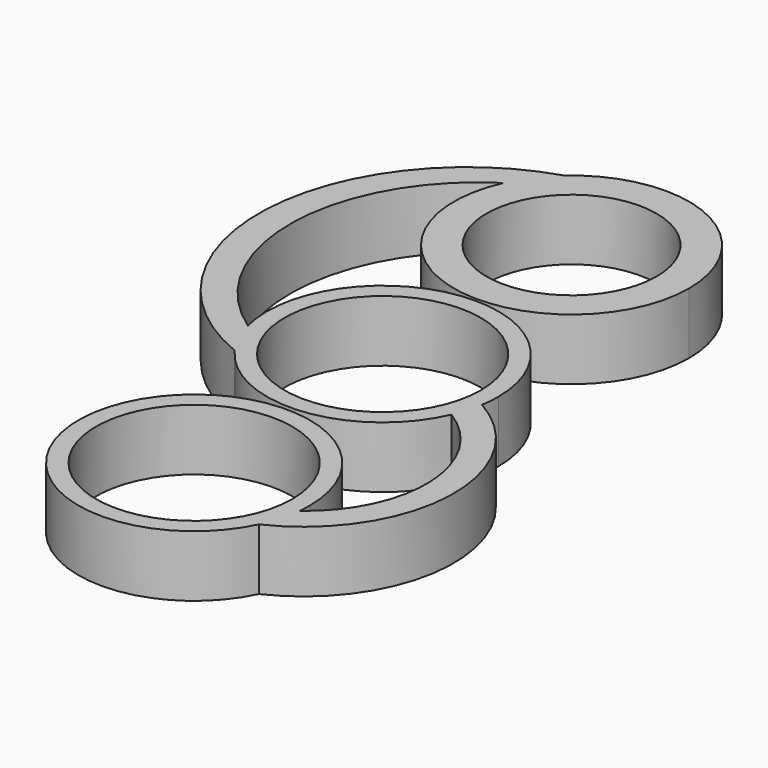
from build123d import *

# Parameters (mm, degrees)
F0_R     = 9.713634
F0_R_2   = 11.2
F1_DEPTH = 7


with BuildPart() as f1:
    # F0 (on Top) → F1 (new body)
    with BuildSketch(Plane.XY):
        with BuildLine():
            ThreePointArc((-8.854372, 37.018063), (-10.764294, 34.946143), (-12.199279, 32.520969))
            ThreePointArc((-12.199279, 32.520969), (-2.856093, 13.831903), (13.415385, 26.939737))
            ThreePointArc((13.415385, 26.939737), (5.531173, 39.161794), (-8.854372, 37.018063))
        make_face()
        with Locations((0, 26.939737)):
            Circle(F0_R, mode=Mode.SUBTRACT)
        with BuildLine():
            ThreePointArc((13.029405, -2.115327), (13.157282, -1.061097), (13.2, 0))
            ThreePointArc((13.2, 0), (-1.618605, 13.100386), (-12.803048, -3.21278))
            ThreePointArc((-12.803048, -3.21278), (-11.973915, -5.555661), (-10.720323, -7.701602))
            ThreePointArc((-10.720323, -7.701602), (1.384033, -13.127241), (12.09075, -5.296581))
            ThreePointArc((12.09075, -5.296581), (12.660396, -3.735554), (13.029405, -2.115327))
        make_face()
        Circle(F0_R_2, mode=Mode.SUBTRACT)
        with BuildLine():
            ThreePointArc((11.916973, -32.559101), (21.744465, -17.675992), (13.029405, -2.115327))
            ThreePointArc((13.029405, -2.115327), (12.660396, -3.735554), (12.09075, -5.296581))
            ThreePointArc((12.09075, -5.296581), (18.694462, -16.500779), (13.128431, -28.255028))
            ThreePointArc((13.128431, -28.255028), (12.706271, -30.458733), (11.916973, -32.559101))
        make_face()
        with BuildLine():
            ThreePointArc((13.2, -26.882328), (-12.875248, -23.972349), (11.916973, -32.559101))
            ThreePointArc((11.916973, -32.559101), (12.706271, -30.458733), (13.128431, -28.255028))
            ThreePointArc((13.128431, -28.255028), (13.182096, -27.56961), (13.2, -26.882328))
        make_face()
        with Locations((0, -26.882328)):
            Circle(F0_R_2, mode=Mode.SUBTRACT)
        with BuildLine():
            ThreePointArc((-10.720323, -7.701602), (-11.973915, -5.555661), (-12.803048, -3.21278))
            ThreePointArc((-12.803048, -3.21278), (-22.113791, 14.816513), (-12.199279, 32.520969))
            ThreePointArc((-12.199279, 32.520969), (-10.764294, 34.946143), (-8.854372, 37.018063))
            ThreePointArc((-8.854372, 37.018063), (-25.545311, 15.31574), (-10.720323, -7.701602))
        make_face()
    extrude(amount=F1_DEPTH)


solid = f1.part
